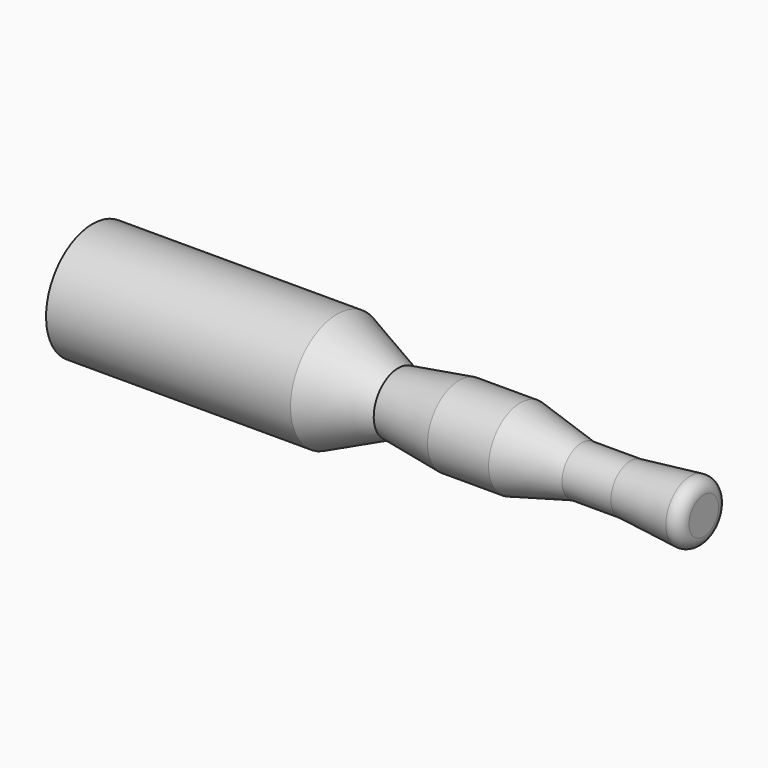
from build123d import *


with BuildPart() as f1:
    # F0 (on Front) → F1 (revolve)
    with BuildSketch(Plane.XZ):
        with BuildLine():
            Line((-100, 0), (0, 0))
            Line((0, 0), (0, 3.010338))
            ThreePointArc((0, 3.010338), (-0.659512, 4.494619), (-2.203091, 5))
            Line((-2.203091, 5), (-12, 4))
            Line((-12, 4), (-20, 4))
            Line((-20, 4), (-30, 6.5))
            Line((-30, 6.5), (-40, 6.5))
            Line((-40, 6.5), (-50, 5))
            Line((-50, 5), (-60, 9.5))
            Line((-60, 9.5), (-100, 9.5))
            Line((-100, 9.5), (-100, 0))
        make_face()
    revolve(axis=Axis((-50, 0, 0), (1, 0, 0)))


solid = f1.part
